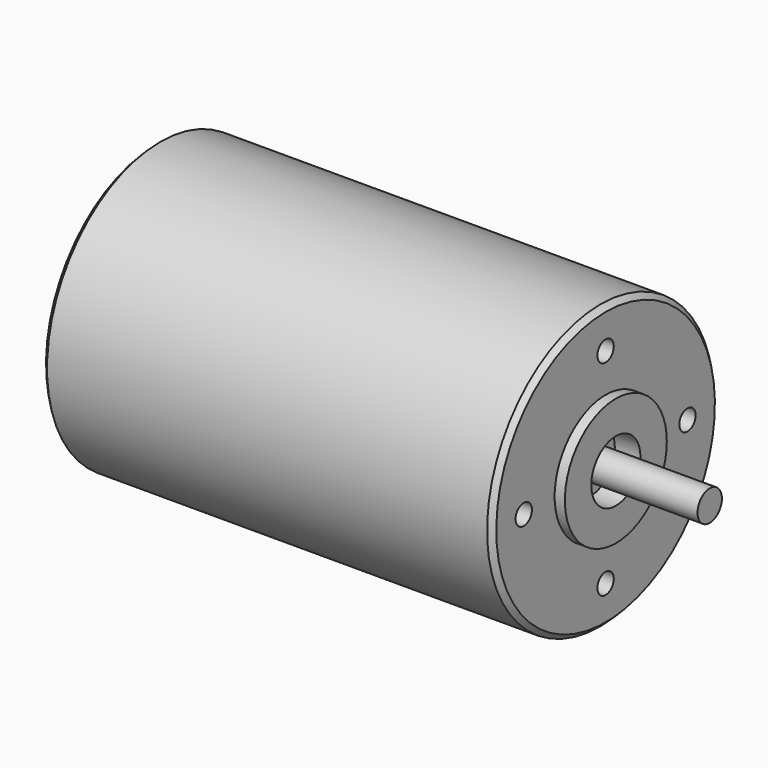
from build123d import *

# Parameters (mm, degrees)
F0_W      = 88
F0_H      = 27.705
F2_SIZE   = 1
F3_R      = 12.45
F4_DEPTH  = 2
F5_R      = 12.465
F6_DEPTH  = 2
F7_R      = 2
F8_DEPTH  = 10
F9_R      = 6
F10_DEPTH = 5
F11_R     = 2.98
F12_DEPTH = 23.35
F13_R     = 2
F14_DEPTH = 5


with BuildPart() as f1:
    # F0 (on Front) → F1 (revolve)
    with BuildSketch(Plane.XZ):
        with Locations((-2.593532, 13.8525)):
            Rectangle(F0_W, F0_H)
    revolve(axis=Axis((-2.593532, 0, 0), (-1, 0, 0)))

    # F2
    f2_edges = [f1.edges().sort_by_distance(p)[0] for p in [
        (-46.593532, 0, -27.705),
        (41.406468, 0, -27.705),
    ]]
    chamfer(f2_edges, length=F2_SIZE)

    # F3 (on face) → F4 (join)
    with BuildSketch(Plane.YZ.offset(41.406468)):
        Circle(F3_R)
    extrude(amount=F4_DEPTH)

    # F5 (on face) → F6 (join)
    with BuildSketch(Plane(origin=(-46.593532, 0, 0), x_dir=(0, -1, 0), z_dir=(-1, 0, 0))):
        Circle(F5_R)
    extrude(amount=F6_DEPTH)

    # F7 (on face) → F8 (cut)
    with BuildSketch(Plane(origin=(-46.593532, 0, 0), x_dir=(0, -1, 0), z_dir=(-1, 0, 0))):
        with Locations((0, 20)):
            Circle(F7_R)
        with Locations((-20, 0)):
            Circle(F7_R)
        with Locations((0, -20)):
            Circle(F7_R)
        with Locations((20, 0)):
            Circle(F7_R)
    extrude(amount=-F8_DEPTH, mode=Mode.SUBTRACT)

    # F9 (on face) → F10 (cut)
    with BuildSketch(Plane.YZ.offset(43.406468)):
        Circle(F9_R)
    extrude(amount=-F10_DEPTH, mode=Mode.SUBTRACT)

    # F11 (on face) → F12 (join)
    with BuildSketch(Plane.YZ.offset(38.406468)):
        Circle(F11_R)
    extrude(amount=F12_DEPTH)

    # F13 (on face) → F14 (cut)
    with BuildSketch(Plane.YZ.offset(41.406468)):
        with Locations((0, 20)):
            Circle(F13_R)
        with Locations((20, 0)):
            Circle(F13_R)
        with Locations((0, -20)):
            Circle(F13_R)
        with Locations((-20, 0)):
            Circle(F13_R)
    extrude(amount=-F14_DEPTH, mode=Mode.SUBTRACT)


solid = f1.part
